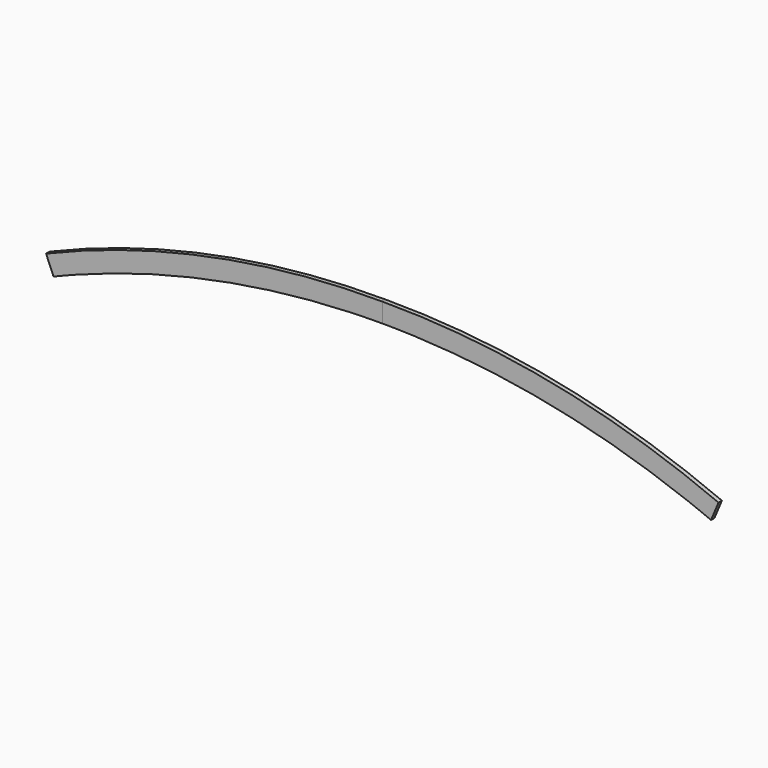
from build123d import *

# Parameters (mm, degrees)
F1_DEPTH = 38.1
F2_ANGLE = 180
F4_ANGLE = -11.3


with BuildPart() as f1:
    # F0 (on Front) → F1 (new body)
    with BuildSketch(Plane.XZ):
        with BuildLine():
            ThreePointArc((1232.7188786248, 61.0594995054), (1374.7176592519, 36.7660376714), (1516.2289303257, 9.7774077221))
            Line((1516.2289303257, 9.7774077221), (1549.9796778646, 178.0370701924))
            ThreePointArc((1549.9796778646, 178.0370701924), (27.490180901, 332.8753196385), (-1495.0609268041, 178.6440767535))
            Line((-1495.0609268043, 178.6440767535), (-1461.3730856832, 10.357819252))
            ThreePointArc((-1461.3730856832, 10.357819252), (-1350.2827463296, 31.7348404882), (-1238.8856445909, 51.4509825764))
            ThreePointArc((-1238.8856445909, 51.4509825764), (-3.4777898682, 157.7087586324), (1232.7188786248, 61.0594995054))
        make_face()
    extrude(amount=F1_DEPTH)


with BuildPart() as f2_1:
    # F2: copy of F1
    add(f1.part.rotate(Axis((1533.1043040951, -38.1, 93.9072389573), (-0.1966697649, 0, -0.9804697872)), F2_ANGLE))


with BuildPart() as f2_1_1:
    # F3: moved
    add(f2_1.part.moved(Location((0, 38.1, 0))))


with BuildPart() as f1_1:
    # F4: moved
    add(f1.part.rotate(Axis((-1495.0609268043, -19.05, 178.6440767535), (0, 1, 0)), F4_ANGLE))


with BuildPart() as f2_1_2:
    # F4: moved
    add(f2_1_1.part.rotate(Axis((-1495.0609268043, -19.05, 178.6440767535), (0, 1, 0)), F4_ANGLE))


solid = Compound([f1_1.part, f2_1_2.part])
